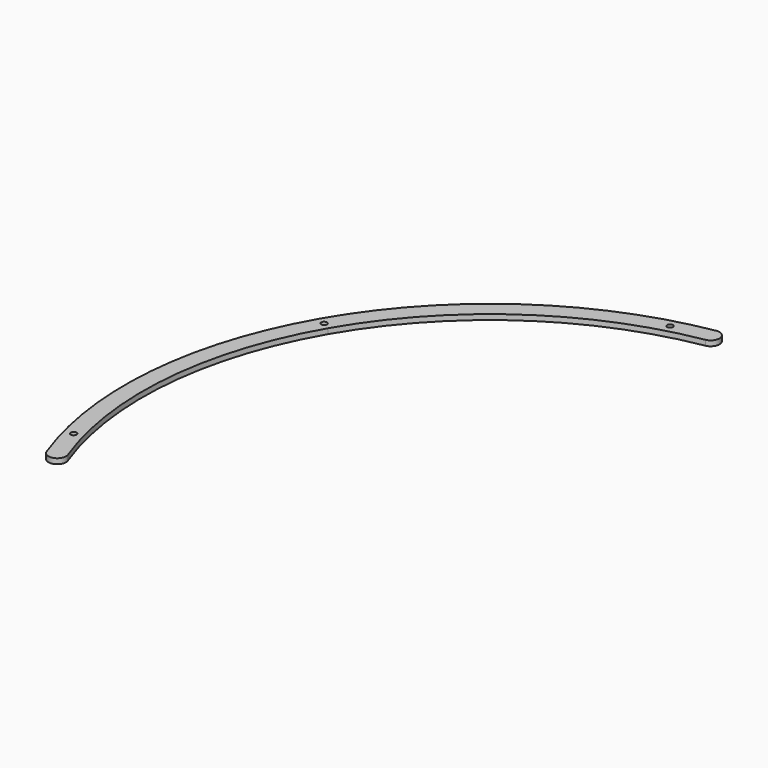
from build123d import *

# Parameters (mm, degrees)
PAD014_DEPTH                        = 3
SKETCH055_R                         = 1.65
POCKET019_DEPTH                     = 364.282338
POCKET019_DEPTH_BACK                = 367.282338
BODY001003005003003_PLACEMENT_ANGLE = 60


with BuildPart() as part:
    # Sketch052 → Pad014 (new body)
    with BuildSketch(Plane.XY):
        with BuildLine():
            ThreePointArc((152.959511, 127.101705), (84.480895, 180.040089), (0, 198.875477))
            Line((0, 198.875477), (0, 208.875477))
            ThreePointArc((160.650731, 133.492724), (88.728824, 189.092995), (0, 208.875477))
            ThreePointArc((152.959511, 127.101705), (160.000631, 126.451604), (160.650731, 133.492724))
        make_face()
    pad014 = extrude(amount=PAD014_DEPTH)

    # Sketch055 → Pocket019 (cut, two sides)
    with BuildSketch(Plane.XY) as pocket019_sk:
        with Locations((143.11, 145.205847)):
            Circle(SKETCH055_R)
        with BuildLine():
            Line((0, 202.225477), (0, 205.525477))
            ThreePointArc((0, 202.225477), (1.65, 203.875477), (0, 205.525477))
        make_face()
    pocket019 = extrude(amount=-POCKET019_DEPTH, mode=Mode.SUBTRACT) + extrude(pocket019_sk.sketch, amount=POCKET019_DEPTH_BACK, mode=Mode.SUBTRACT)

    # Mirrored019: Pad014, Pocket019 across Sketch052 V_Axis
    add(pad014.mirror(Plane(origin=(0, 0, 0), x_dir=(0, 0, 1), z_dir=(1, 0, 0))))
    add(pocket019.mirror(Plane(origin=(0, 0, 0), x_dir=(0, 0, 1), z_dir=(1, 0, 0))), mode=Mode.SUBTRACT)


with BuildPart() as part_1:
    # Body001003005003003 placement: moved
    add(part.part.rotate(Axis((0, 0, 0), (0, 0, 1)), BODY001003005003003_PLACEMENT_ANGLE))


solid = part_1.part
